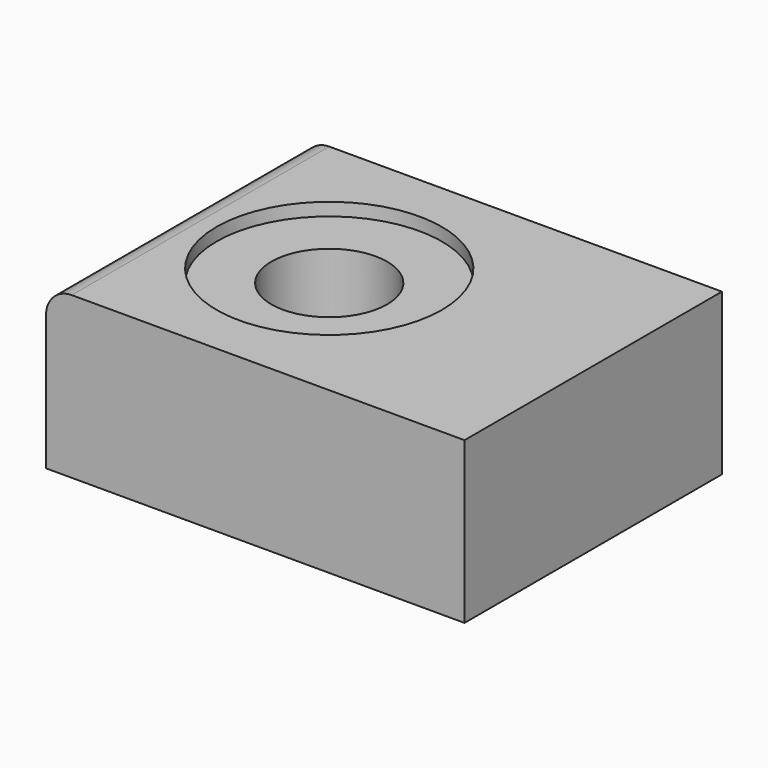
from build123d import *

# Parameters (mm, degrees)
F0_W     = 65.023827
F0_H     = 50
F1_DEPTH = 25
F2_R     = 9
F3_DEPTH = 25.001
F4_R     = 17.5
F5_DEPTH = 2
F6_R     = 4


with BuildPart() as f1:
    # F0 (on Top) → F1 (new body)
    with BuildSketch(Plane.XY):
        with Locations((8.511913, 0)):
            Rectangle(F0_W, F0_H)
    extrude(amount=-F1_DEPTH)

    # F2 (on face) → F3 (cut, through all)
    with BuildSketch(Plane.XY):
        Circle(F2_R)
    extrude(amount=-F3_DEPTH, mode=Mode.SUBTRACT)

    # F4 (on face) → F5 (cut)
    with BuildSketch(Plane.XY):
        Circle(F4_R)
    extrude(amount=-F5_DEPTH, mode=Mode.SUBTRACT)

    # F6
    f6_edges = [f1.edges().sort_by_distance(p)[0] for p in [
        (-24, 0, 0),
    ]]
    fillet(f6_edges, radius=F6_R)


solid = f1.part
